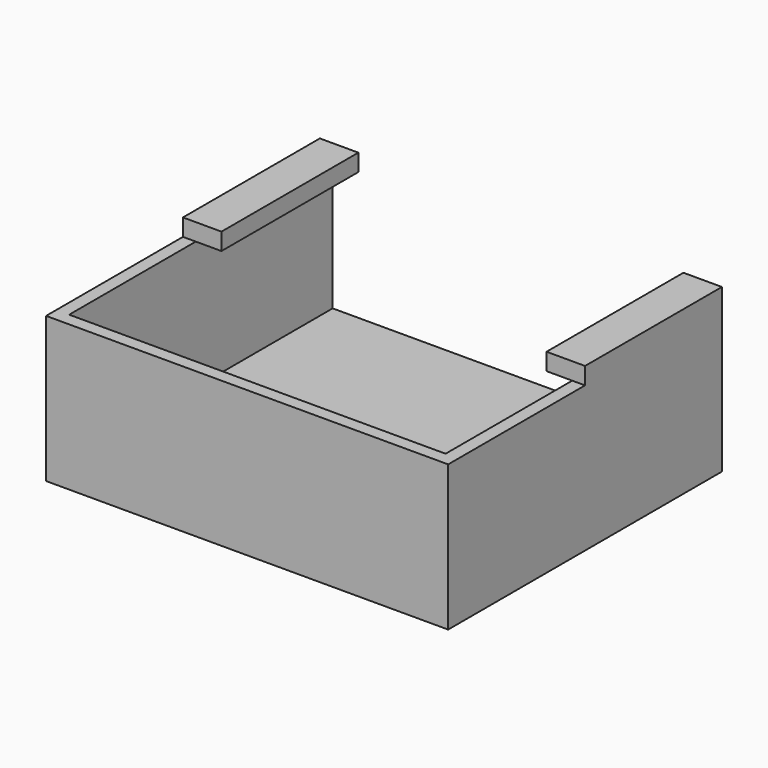
from build123d import *

# Parameters (mm, degrees)
SKETCH_W     = 47
SKETCH_H     = 40
SKETCH_R     = 2
PAD_DEPTH    = 2
PAD001_DEPTH = 15
SKETCH002_W  = 4.5
SKETCH002_H  = 20
PAD002_DEPTH = 2


with BuildPart() as part:
    # Sketch → Pad (new body)
    with BuildSketch(Plane.XY):
        Rectangle(SKETCH_W, SKETCH_H)
        with Locations((-18.485281, -14.985281)):
            Circle(SKETCH_R, mode=Mode.SUBTRACT)
        with Locations((18.485281, -14.985281)):
            Circle(SKETCH_R, mode=Mode.SUBTRACT)
    extrude(amount=PAD_DEPTH)

    # Sketch001 (on Face8 of Pad) → Pad001 (join)
    with BuildSketch(Plane.XY.offset(2)):
        Polygon((-23.5, -20), (23.5, -20), (23.5, 20), (22, 20), (22, -18.5), (-22, -18.5), (-22, 20), (-23.5, 20), align=None)
    extrude(amount=PAD001_DEPTH)

    # Sketch002 (on Face14 of Pad001) → Pad002 (join)
    with BuildSketch(Plane.XY.offset(17)):
        with Locations((-21.25, 10)):
            Rectangle(SKETCH002_W, SKETCH002_H)
        with Locations((21.25, 10)):
            Rectangle(SKETCH002_W, SKETCH002_H)
    extrude(amount=PAD002_DEPTH)


solid = part.part
